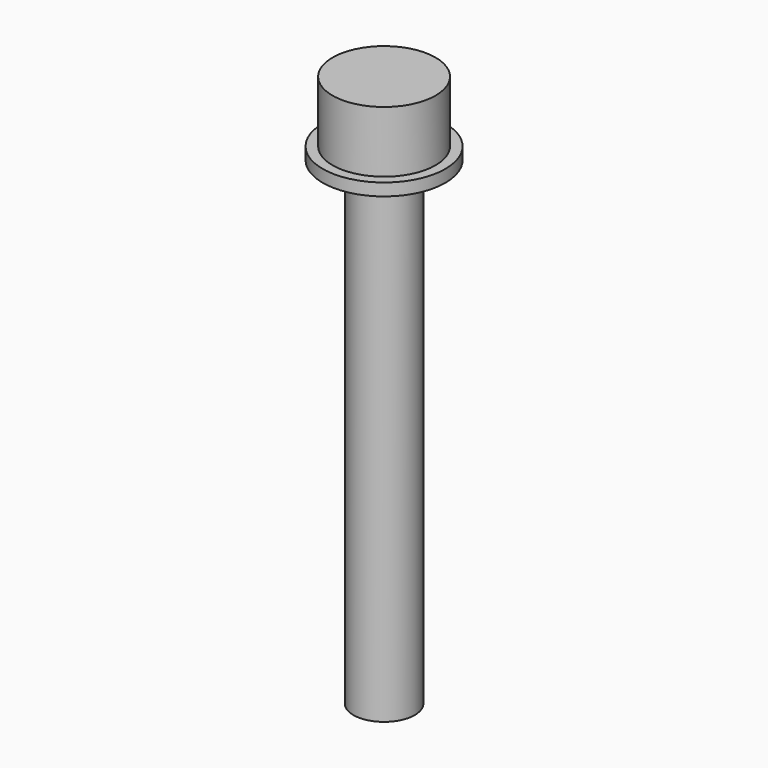
from build123d import *

# Parameters (mm, degrees)
F0_R     = 2.5
F1_DEPTH = 40
F2_R     = 4.2
F3_DEPTH = 5
F4_R     = 5
F5_DEPTH = 1


with BuildPart() as f1:
    # F0 (on Top) → F1 (new body)
    with BuildSketch(Plane.XY):
        Circle(F0_R)
    extrude(amount=-F1_DEPTH)

    # F2 (on Top) → F3 (join)
    with BuildSketch(Plane.XY):
        Circle(F2_R)
    extrude(amount=F3_DEPTH)

    # F4 (on Top) → F5 (join)
    with BuildSketch(Plane.XY):
        Circle(F4_R)
    extrude(amount=-F5_DEPTH)


solid = f1.part
